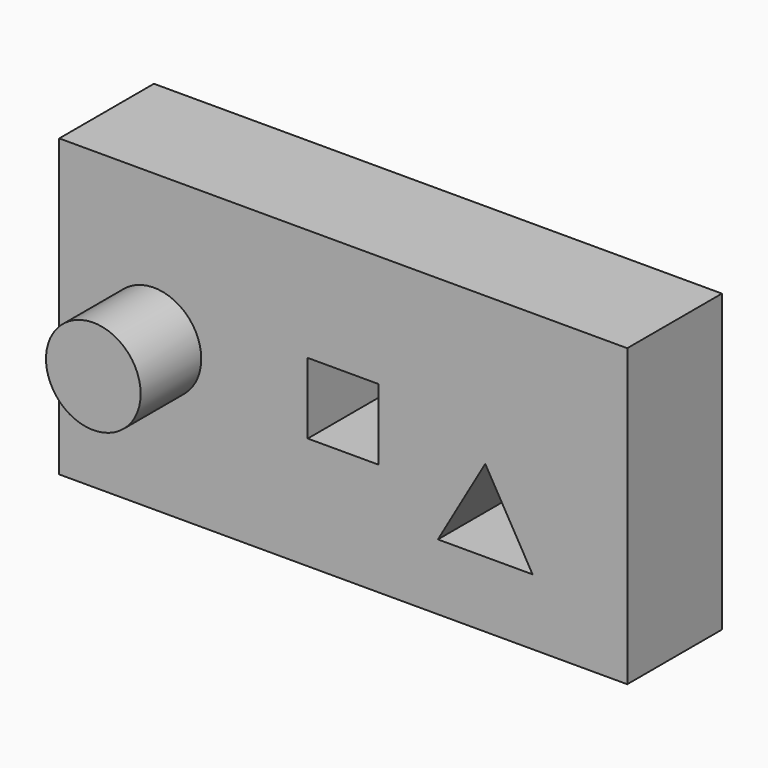
from build123d import *

# Parameters (mm, degrees)
F0_R     = 12.7
F1_DEPTH = 52.07
F2_DEPTH = 20.32
F3_DEPTH = 31.75


with BuildPart() as f1:
    # F0 (on Front) → F1 (new body)
    with BuildSketch(Plane.XZ):
        with Locations((-82.55, 0)):
            Circle(F0_R)
    extrude(amount=F1_DEPTH)

    # F0 (on Front) → F2 (join)
    with BuildSketch(Plane.XZ):
        Polygon((44.45, -39.6875), (44.45, 0), (44.45, 39.6875), (-107.95, 39.6875), (-107.95, -39.6875), align=None)
        Polygon((-6.35, -21.9970452561), (6.35, 0), (19.05, -21.9970452561), align=None, mode=Mode.SUBTRACT)
        with Locations((-82.55, 0)):
            Circle(F0_R, mode=Mode.SUBTRACT)
        Polygon((-22.225, 9.525), (-22.225, 0), (-22.225, -9.525), (-41.275, -9.525), (-41.275, 0), (-41.275, 9.525), align=None, mode=Mode.SUBTRACT)
    extrude(amount=F2_DEPTH)


with BuildPart() as f3:
    # F0 (on Front) → F3 (new body)
    with BuildSketch(Plane.XZ):
        Polygon((44.45, -39.6875), (44.45, 0), (44.45, 39.6875), (-107.95, 39.6875), (-107.95, -39.6875), align=None)
        Polygon((-6.35, -21.9970452561), (6.35, 0), (19.05, -21.9970452561), align=None, mode=Mode.SUBTRACT)
        with Locations((-82.55, 0)):
            Circle(F0_R, mode=Mode.SUBTRACT)
        Polygon((-22.225, 9.525), (-22.225, 0), (-22.225, -9.525), (-41.275, -9.525), (-41.275, 0), (-41.275, 9.525), align=None, mode=Mode.SUBTRACT)
    extrude(amount=F3_DEPTH)


solid = Compound([f1.part, f3.part])
